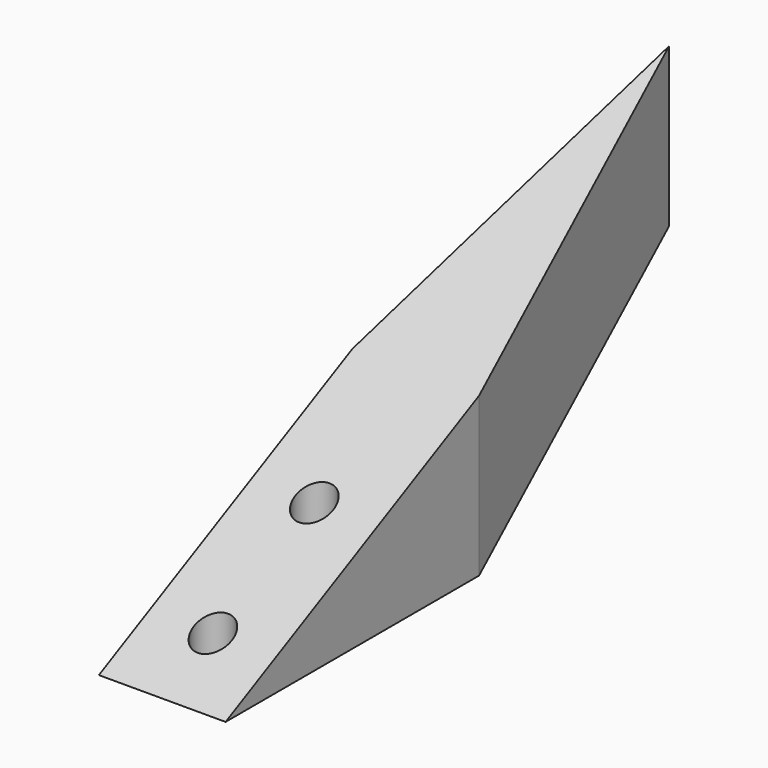
from build123d import *

# Parameters (mm, degrees)
F1_DEPTH = 25
F3_DEPTH = 5.001
F4_DEPTH = 5.001
F5_R     = 1.5
F6_DEPTH = 25.001


with BuildPart() as f1:
    # F0 (on Top) → F1 (new body)
    with BuildSketch(Plane.XY):
        Polygon((-5, -25), (-5, -50), (5, -50), (5, -25), (0, 0), align=None)
    extrude(amount=F1_DEPTH)

    # F2 (on Right) → F3 (cut, through all)
    with BuildSketch(Plane.YZ):
        Polygon((-50, 0), (0, 25), (-50, 25), align=None)
        Polygon((-25, 0), (0, 0), (0, 12.5), align=None)
    extrude(amount=-F3_DEPTH, mode=Mode.SUBTRACT)

    # F3_face (on face) → F4 (cut, through all)
    with BuildSketch(Plane(origin=(0, -33.333333, 16.666667), x_dir=(0, 1, 0), z_dir=(-1, 0, 0))):
        Polygon((33.333333, -8.333333), (-16.666667, 16.666667), (-16.666667, -8.333333), align=None)
        Polygon((33.333333, 16.666667), (8.333333, 16.666667), (33.333333, 4.166667), align=None)
    extrude(amount=-F4_DEPTH, mode=Mode.SUBTRACT)

    # F5 (on face) → F6 (cut, through all)
    with BuildSketch(Plane(origin=(0, 0, 0), x_dir=(1, 0, 0), z_dir=(0, 0, -1))):
        with Locations((0, 35)):
            Circle(F5_R)
        with Locations((0, 45)):
            Circle(F5_R)
    extrude(amount=-F6_DEPTH, mode=Mode.SUBTRACT)


solid = f1.part
